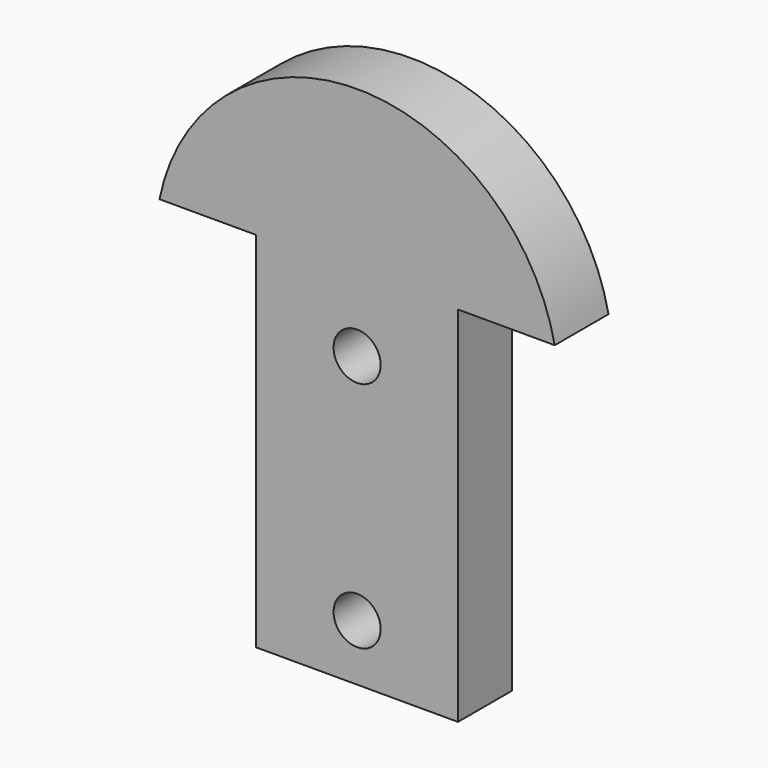
from build123d import *

# Parameters (mm, degrees)
F0_W     = 15
F0_H     = 27
F0_R     = 1.75
F1_DEPTH = 5


with BuildPart() as f1:
    # F0 (on Front) → F1 (new body)
    with BuildSketch(Plane.XZ):
        Rectangle(F0_W, F0_H)
        with Locations((0, -9.3)):
            Circle(F0_R, mode=Mode.SUBTRACT)
        with Locations((0, 8)):
            Circle(F0_R, mode=Mode.SUBTRACT)
        with BuildLine():
            Line((-7.5, 13.5), (7.5, 13.5))
            Line((7.5, 13.5), (14.696938, 13.5))
            ThreePointArc((14.696938, 13.5), (0, 25.5), (-14.696938, 13.5))
            Line((-14.696938, 13.5), (-7.5, 13.5))
        make_face()
    extrude(amount=F1_DEPTH)


solid = f1.part
